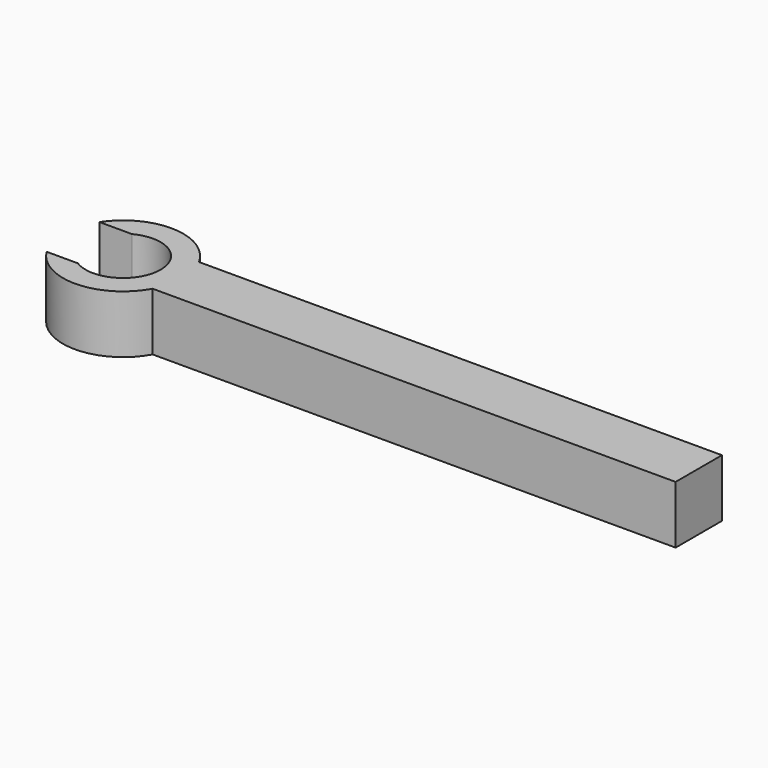
from build123d import *

# Parameters (mm, degrees)
F1_DEPTH = 3.32


with BuildPart() as f1:
    # F0 (on Top) → F1 (new body)
    with BuildSketch(Plane.XY):
        with BuildLine():
            Line((-4.0609306832, 0), (-5.8536231884, 0))
            ThreePointArc((-5.8536231884, 0), (-2.830299524, -1.6221028107), (0.0975726406, 0.166546986))
            Line((0.0975726406, 0.166546986), (0.0975726406, 3.486546986))
            ThreePointArc((0.0975726406, 3.486546986), (-2.7866847097, 5.2737000804), (-5.8064817142, 3.726546986))
            Line((-5.8064817142, 3.726546986), (-3.9330421841, 3.726546986))
            ThreePointArc((-3.9330421841, 3.726546986), (-0.7780765485, 1.752806201), (-4.0609306832, 0))
        make_face()
        with BuildLine():
            Line((0.0975726406, 3.486546986), (0.0975726406, 0.166546986))
            ThreePointArc((0.0975726406, 0.166546986), (0.5231884058, 1.826546986), (0.0975726406, 3.486546986))
        make_face()
        with BuildLine():
            ThreePointArc((0.0975726406, 3.486546986), (0.5231884058, 1.826546986), (0.0975726406, 0.166546986))
            Line((0.0975726406, 0.166546986), (30.0975726406, 0.166546986))
            Line((30.0975726406, 0.166546986), (30.0980855463, 0.166546986))
            Line((30.0980855463, 0.166546986), (30.0980855463, 3.486546986))
            Line((30.0980855463, 3.486546986), (0.0975726406, 3.486546986))
        make_face()
    extrude(amount=F1_DEPTH)


solid = f1.part
